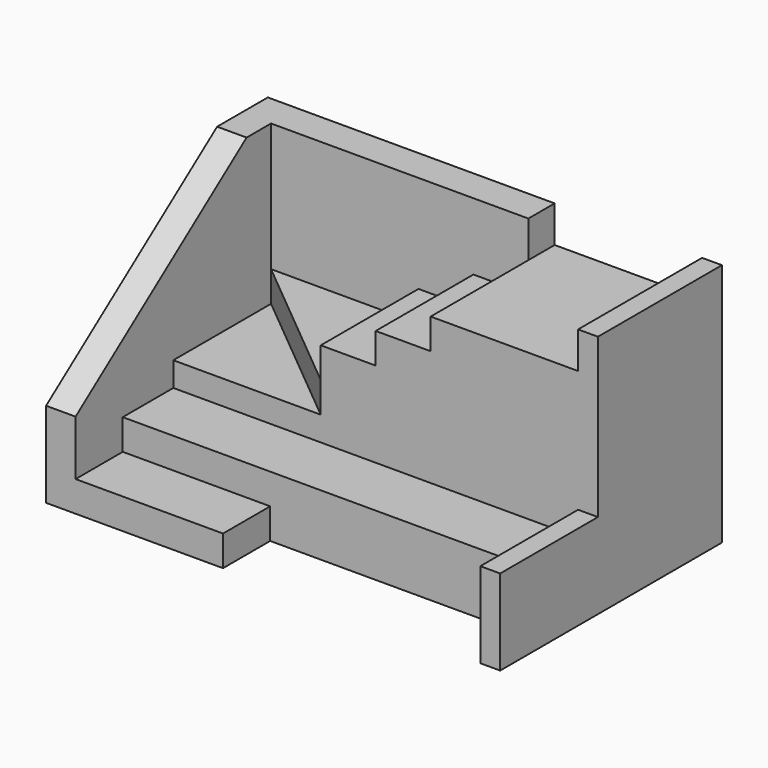
from build123d import *

# Parameters (mm, degrees)
F1_DEPTH  = 40
F3_DEPTH  = 25
F4_DEPTH  = 40
F5_DEPTH  = 14
F6_DEPTH  = 19
F0_W      = 9
F0_H      = 20.0069169636
F7_DEPTH  = 24
F8_DEPTH  = 29
F9_DEPTH  = 34
F10_DEPTH = 10
F0_W_2    = 24.1446838646
F0_H_2    = 9.6578735458
F11_DEPTH = 5
F0_W_3    = 3.2473218008
F0_H_3    = 25.3850887019
F12_DEPTH = 40
F13_DEPTH = 14


with BuildPart() as f1:
    # F0 (on Top) → F1 (new body)
    with BuildSketch(Plane.XY):
        Polygon((-37.1828131515, 17.3178310944), (-37.1828131515, -22.6960028327), (-32.3538763785, -22.6960028327), (-32.3538763785, -13.0381292869), (-32.3538763785, -2.6890858691), (-32.3538763785, 17.3178310944), align=None)
    extrude(amount=F1_DEPTH)

    # F2 (on face) → F3 (cut)
    with BuildSketch(Plane.YZ.offset(-32.3538763785)):
        Polygon((-22.6960028327, 40), (-22.6960028327, 14), (12.3178310944, 40), align=None)
    extrude(amount=-F3_DEPTH, mode=Mode.SUBTRACT)

    # F0 (on Top) → F4 (join)
    with BuildSketch(Plane.XY):
        Polygon((-37.1828131515, 22.6960028327), (-37.1828131515, 17.3178310944), (-32.3538763785, 17.3178310944), (-8.209192514, 17.3178310944), (0.790807486, 17.3178310944), (9.790807486, 17.3178310944), (9.790807486, 22.6960028327), align=None)
    extrude(amount=F4_DEPTH)

    # F0 (on Top) → F5 (join)
    with BuildSketch(Plane.XY):
        Polygon((-8.209192514, -2.6890858691), (-32.3538763785, 17.3178310944), (-32.3538763785, -2.6890858691), align=None)
    extrude(amount=F5_DEPTH)

    # F0 (on Top) → F6 (join)
    with BuildSketch(Plane.XY):
        Polygon((-8.209192514, 17.3178310944), (-32.3538763785, 17.3178310944), (-8.209192514, -2.6890858691), align=None)
    extrude(amount=F6_DEPTH)

    # F0 (on Top) → F7 (join)
    with BuildSketch(Plane.XY):
        with Locations((-3.709192514, 7.3143726126)):
            Rectangle(F0_W, F0_H)
    extrude(amount=F7_DEPTH)

    # F0 (on Top) → F8 (join)
    with BuildSketch(Plane.XY):
        with Locations((5.290807486, 7.3143726126)):
            Rectangle(F0_W, F0_H)
    extrude(amount=F8_DEPTH)

    # F0 (on Top) → F9 (join)
    with BuildSketch(Plane.XY):
        Polygon((33.9354913506, 22.6960028327), (9.790807486, 22.6960028327), (9.790807486, 17.3178310944), (9.790807486, -2.6890858691), (33.9354913506, -2.6890858691), align=None)
    extrude(amount=F9_DEPTH)

    # F0 (on Top) → F10 (join)
    with BuildSketch(Plane.XY):
        Polygon((-32.3538763785, -2.6890858691), (-32.3538763785, -13.0381292869), (-8.209192514, -13.0381292869), (33.9354913506, -13.0381292869), (33.9354913506, -2.6890858691), (9.790807486, -2.6890858691), (0.790807486, -2.6890858691), (-8.209192514, -2.6890858691), align=None)
    extrude(amount=F10_DEPTH)

    # F0 (on Top) → F11 (join)
    with BuildSketch(Plane.XY):
        with Locations((-20.2815344463, -17.8670660598)):
            Rectangle(F0_W_2, F0_H_2)
    extrude(amount=F11_DEPTH)

    # F0 (on Top) → F12 (join)
    with BuildSketch(Plane.XY):
        with Locations((35.559152251, 10.0034584818)):
            Rectangle(F0_W_3, F0_H_3)
    extrude(amount=F12_DEPTH)

    # F0 (on Top) → F13 (join)
    with BuildSketch(Plane.XY):
        Polygon((33.9354913506, -2.6890858691), (33.9354913506, -13.0381292869), (33.9354913506, -22.6960028327), (37.1828131515, -22.6960028327), (37.1828131515, -2.6890858691), align=None)
    extrude(amount=F13_DEPTH)


solid = f1.part
